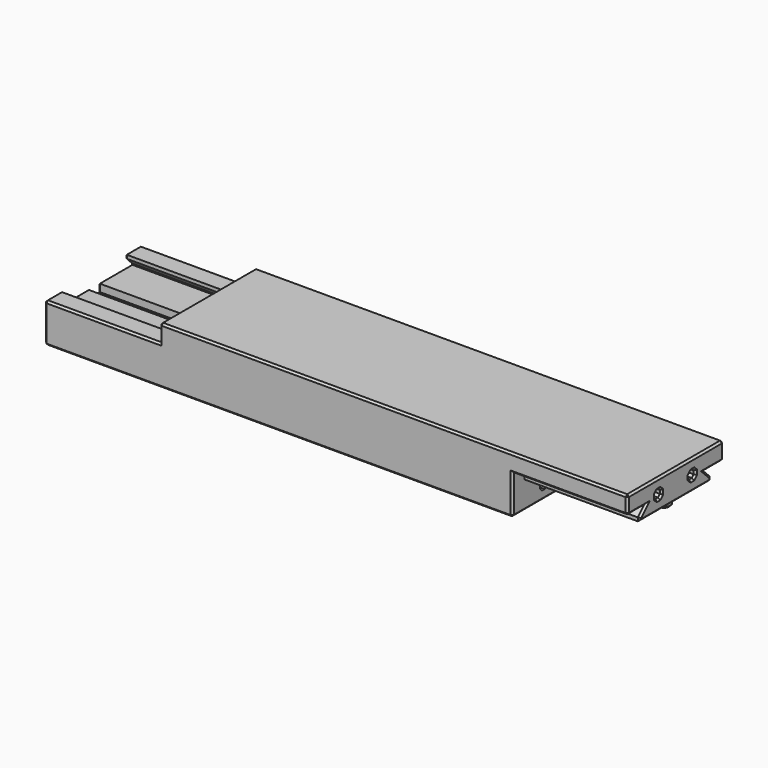
from build123d import *

# Parameters (mm, degrees)
PAD_DEPTH    = 49
PAD001_DEPTH = 150
PAD002_DEPTH = 49
SKETCH003_R  = 2.75
PAD003_DEPTH = 3
SKETCH004_W  = 5.8
SKETCH004_H  = 3.15
POCKET_DEPTH = 49
CHAMFER_SIZE = 0.8


with BuildPart() as part:
    # Sketch → Pad (new body)
    with BuildSketch(Plane.YZ):
        Polygon((0, 0), (-19, 0), (-19, 1.5), (-15.5, 5), (-25.5, 5), (-25.5, 12.5), (0, 12.5), align=None)
        Polygon((-10.7, 6.954163), (-10.7, 5.545837), (-9.704163, 4.55), (-8.295837, 4.55), (-7.3, 5.545837), (-7.3, 6.954163), (-8.295837, 7.95), (-9.704163, 7.95), align=None, mode=Mode.SUBTRACT)
    pad = extrude(amount=PAD_DEPTH)

    # Sketch001 (on Face16 of Pad) → Pad001 (join)
    with BuildSketch(Plane(origin=(0, 0, 0), x_dir=(0, 1, 0), z_dir=(-1, 0, 0))):
        Polygon((0, 0), (0, 11.7), (-25.5, 11.7), (-25.5, -12.5), (0, -12.5), align=None)
        Polygon((-9.704163, -4.55), (-10.7, -5.545837), (-10.7, -6.954163), (-9.704163, -7.95), (-8.295837, -7.95), (-7.3, -6.954163), (-7.3, -5.545837), (-8.295837, -4.55), align=None, mode=Mode.SUBTRACT)
        Polygon((-9.704163, 7.95), (-10.7, 6.954163), (-10.7, 5.545837), (-9.704163, 4.55), (-8.295837, 4.55), (-7.3, 5.545837), (-7.3, 6.954163), (-8.295837, 7.95), align=None, mode=Mode.SUBTRACT)
    pad001 = extrude(amount=PAD001_DEPTH)

    # Sketch002 (on Face16 of Pad001) → Pad002 (join)
    with BuildSketch(Plane(origin=(-150, 0, 0), x_dir=(0, 1, 0), z_dir=(-1, 0, 0))):
        Polygon((0, 11.7), (-25.5, 11.7), (-25.5, -5), (-17.212132, -5), (-17.212132, -3.5), (-20.212132, -0.5), (-20.212132, 0), (0, 0), align=None)
        Polygon((-9.704163, 7.95), (-10.7, 6.954163), (-10.7, 5.545837), (-9.704163, 4.55), (-8.295837, 4.55), (-7.3, 5.545837), (-7.3, 6.954163), (-8.295837, 7.95), align=None, mode=Mode.SUBTRACT)
    pad002 = extrude(amount=PAD002_DEPTH)

    # Mirrored: Pad002, Pad001, Pad across Sketch002 V_Axis
    add(pad002.mirror(Plane(origin=(-150, 0, 0), x_dir=(-1, 0, 0), z_dir=(0, 1, 0))))
    add(pad001.mirror(Plane(origin=(-150, 0, 0), x_dir=(-1, 0, 0), z_dir=(0, 1, 0))))
    add(pad.mirror(Plane(origin=(-150, 0, 0), x_dir=(-1, 0, 0), z_dir=(0, 1, 0))))

    # Sketch003 (on Face30 of Mirrored) → Pad003 (join)
    with BuildSketch(Plane.YX):
        with Locations((0, 44.1)):
            Circle(SKETCH003_R)
        with Locations((0, 4.9)):
            Circle(SKETCH003_R)
    extrude(amount=PAD003_DEPTH)

    # Sketch004 (on Face8 of Pad003) → Pocket (cut)
    with BuildSketch(Plane(origin=(-199, 0, 0), x_dir=(0, 1, 0), z_dir=(-1, 0, 0))):
        with Locations((0, 1.575)):
            Rectangle(SKETCH004_W, SKETCH004_H)
    extrude(amount=-POCKET_DEPTH, mode=Mode.SUBTRACT)

    # Chamfer
    chamfer_edges = [part.edges().sort_by_distance(p)[0] for p in [
        (-50.5, -25.5, 12.5),
        (49, 0, 12.5),
        (-50.5, 25.5, 12.5),
        (-150, 0, 12.5),
        (-99.5, 25.5, -11.7),
        (-199, 25.5, -3.35),
        (-174.5, 25.5, 5),
        (-150, 25.5, 8.75),
        (49, 25.5, 8.75),
        (24.5, 25.5, 5),
        (0, 25.5, -3.35),
        (-199, -17.212132, 4.25),
        (-199, -21.356066, 5),
        (-199, -25.5, -3.35),
        (-199, 0, -11.7),
        (-199, 21.356066, 5),
        (-199, 17.212132, 4.25),
        (-199, 18.712132, 2),
        (-199, 20.212132, 0.25),
        (-199, 11.556066, 0),
        (-199, 2.9, -1.575),
        (-199, 0, -3.15),
        (-199, -2.9, -1.575),
        (-199, -11.556066, 0),
        (-199, -20.212132, 0.25),
        (-199, -18.712132, 2),
        (-199, -10.202082, -7.452082),
        (-199, -9, -7.95),
        (-199, -10.7, -6.25),
        (-199, -7.797918, -7.452082),
        (-199, -10.202082, -5.047918),
        (-199, -7.3, -6.25),
        (-199, -9, -4.55),
        (-199, -7.797918, -5.047918),
        (-199, 10.202082, -7.452082),
        (-199, 9, -7.95),
        (-199, 10.7, -6.25),
        (-199, 7.797918, -7.452082),
        (-199, 10.202082, -5.047918),
        (-199, 7.3, -6.25),
        (-199, 9, -4.55),
        (-199, 7.797918, -5.047918),
        (24.5, -25.5, 5),
        (49, -25.5, 8.75),
        (-150, -25.5, 8.75),
        (-174.5, -25.5, 5),
        (-99.5, -25.5, -11.7),
        (0, -25.5, -3.35),
        (0, 0, -11.7),
        (49, -17.25, 3.25),
        (49, -19, 0.75),
        (49, 0, 0),
        (49, 19, 0.75),
        (49, 17.25, 3.25),
        (49, 20.5, 5),
        (49, -20.5, 5),
        (49, -10.7, 6.25),
        (49, -10.202082, 7.452082),
        (49, -9, 7.95),
        (49, -7.797918, 7.452082),
        (49, -7.3, 6.25),
        (49, -7.797918, 5.047918),
        (49, -9, 4.55),
        (49, -10.202082, 5.047918),
        (49, 10.7, 6.25),
        (49, 10.202082, 5.047918),
        (49, 9, 4.55),
        (49, 7.797918, 5.047918),
        (49, 7.3, 6.25),
        (49, 7.797918, 7.452082),
        (49, 9, 7.95),
        (49, 10.202082, 7.452082),
        (44.1, -2.75, -3),
        (4.9, -2.75, -3),
    ]]
    chamfer(chamfer_edges, length=CHAMFER_SIZE)


solid = part.part
